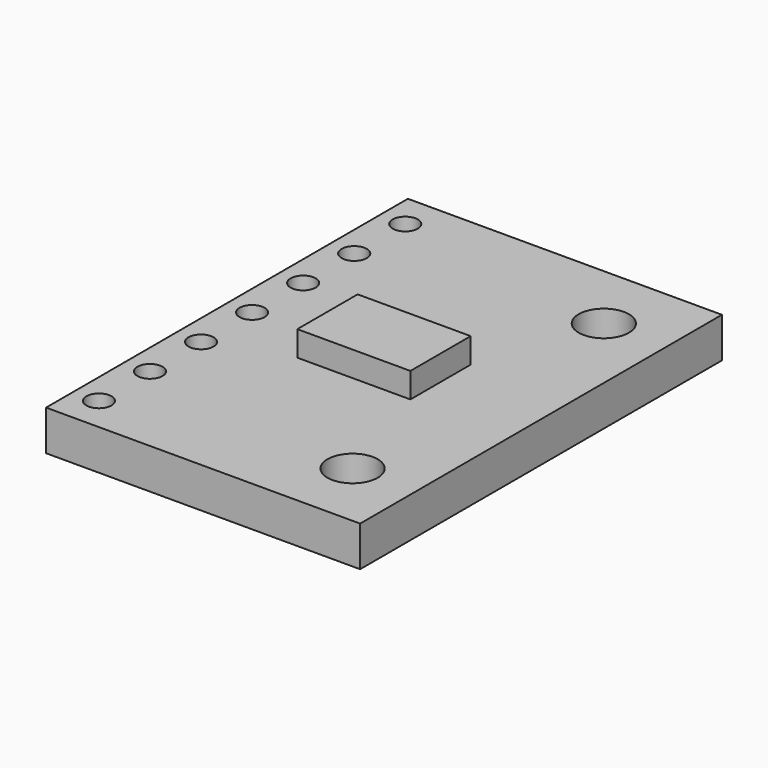
from build123d import *

# Parameters (mm, degrees)
F0_W     = 12.5
F0_H     = 18
F0_R     = 0.5
F0_R_2   = 1
F0_W_2   = 4.5
F0_H_2   = 3
F1_DEPTH = 1.6
F2_DEPTH = 1


with BuildPart() as f1:
    # F0 (on Top) → F1 (new body)
    with BuildSketch(Plane.XY):
        Rectangle(F0_W, F0_H)
        with Locations((-5.25, -7.62)):
            Circle(F0_R, mode=Mode.SUBTRACT)
        with Locations((-5.25, -5.08)):
            Circle(F0_R, mode=Mode.SUBTRACT)
        with Locations((-5.25, -2.54)):
            Circle(F0_R, mode=Mode.SUBTRACT)
        with Locations((3.75, -6.25)):
            Circle(F0_R_2, mode=Mode.SUBTRACT)
        with Locations((-5.25, 0)):
            Circle(F0_R, mode=Mode.SUBTRACT)
        with Locations((-5.25, 2.54)):
            Circle(F0_R, mode=Mode.SUBTRACT)
        with Locations((-5.25, 5.08)):
            Circle(F0_R, mode=Mode.SUBTRACT)
        with Locations((-5.25, 7.62)):
            Circle(F0_R, mode=Mode.SUBTRACT)
        Rectangle(F0_W_2, F0_H_2, mode=Mode.SUBTRACT)
        with Locations((3.75, 6.25)):
            Circle(F0_R_2, mode=Mode.SUBTRACT)
        Rectangle(F0_W_2, F0_H_2)
    extrude(amount=-F1_DEPTH)

    # F0 (on Top) → F2 (join)
    with BuildSketch(Plane.XY):
        Rectangle(F0_W_2, F0_H_2)
    extrude(amount=F2_DEPTH)


solid = f1.part
